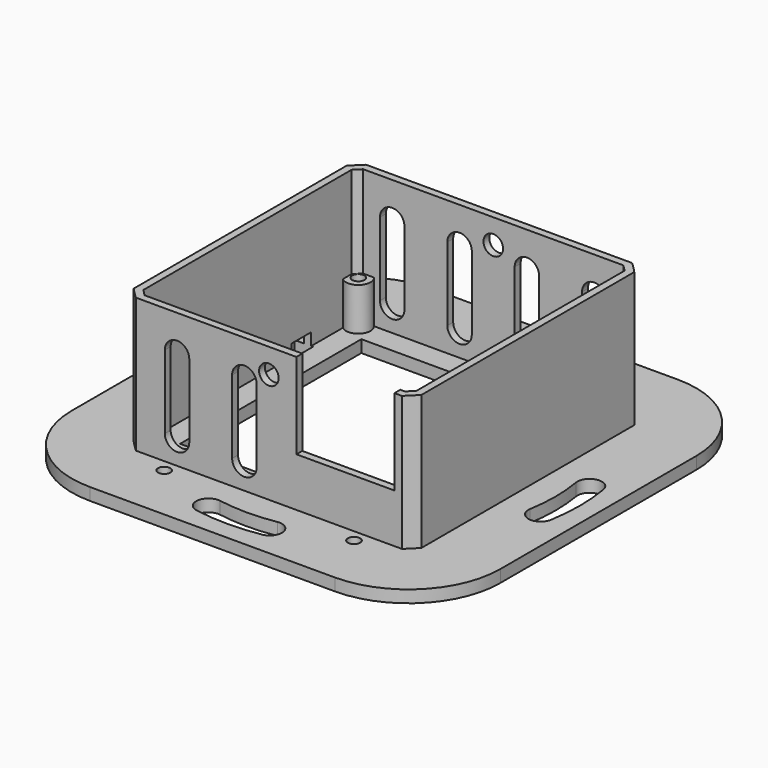
from build123d import *

# Parameters (mm, degrees)
SKETCH_W        = 70
SKETCH_H        = 70
PAD_DEPTH       = 2
PAD001_DEPTH    = 22
POCKET_DEPTH    = 22
SKETCH003_W     = 16
SKETCH003_H     = 23.864653
POCKET001_DEPTH = 18
SKETCH009_R     = 1.6
POCKET005_DEPTH = 58.501
SKETCH010_R     = 2
SKETCH010_W     = 2.5
SKETCH010_H     = 3
SKETCH010_W_2   = 3
PAD004_DEPTH    = 7
POCKET006_DEPTH = 5
POCKET007_DEPTH = 2
FILLET_R        = 15
SKETCH014_W     = 3
SKETCH014_H     = 4
POCKET009_DEPTH = 4
SKETCH015_R     = 1
POCKET010_DEPTH = 24.001
SKETCH016_R     = 1
SKETCH016_W     = 37
SKETCH016_H     = 37
POCKET011_DEPTH = 5


with BuildPart() as part:
    # Sketch → Pad (new body)
    with BuildSketch(Plane.XY):
        Rectangle(SKETCH_W, SKETCH_H)
        with BuildLine():
            ThreePointArc((27.608372, -4.666667), (28, 0), (27.608372, 4.666667))
            ThreePointArc((31.552426, 5.333333), (29.247066, 6.972027), (27.608372, 4.666667))
            ThreePointArc((31.552426, -5.333333), (32, 0), (31.552426, 5.333333))
            ThreePointArc((27.608372, -4.666667), (29.247066, -6.972027), (31.552426, -5.333333))
        make_face(mode=Mode.SUBTRACT)
        with BuildLine():
            ThreePointArc((-27.608372, 4.666667), (-28, 0), (-27.608372, -4.666667))
            ThreePointArc((-31.552426, -5.333333), (-29.247066, -6.972027), (-27.608372, -4.666667))
            ThreePointArc((-31.552426, 5.333333), (-32, 0), (-31.552426, -5.333333))
            ThreePointArc((-27.608372, 4.666667), (-29.247066, 6.972027), (-31.552426, 5.333333))
        make_face(mode=Mode.SUBTRACT)
        with BuildLine():
            ThreePointArc((4.666667, 27.608372), (-1e-06, 28), (-4.666668, 27.608372))
            ThreePointArc((-5.333333, 31.552426), (-6.972027, 29.247066), (-4.666668, 27.608372))
            ThreePointArc((5.333333, 31.552426), (0, 32), (-5.333333, 31.552426))
            ThreePointArc((4.666667, 27.608372), (6.972027, 29.247066), (5.333333, 31.552426))
        make_face(mode=Mode.SUBTRACT)
        with BuildLine():
            ThreePointArc((-4.666659, -27.608374), (4e-06, -28), (4.666667, -27.608372))
            ThreePointArc((5.333333, -31.552426), (6.972027, -29.247066), (4.666667, -27.608372))
            ThreePointArc((-5.333319, -31.552428), (7e-06, -32), (5.333333, -31.552426))
            ThreePointArc((-4.666659, -27.608374), (-6.972027, -29.247069), (-5.333319, -31.552428))
        make_face(mode=Mode.SUBTRACT)
    extrude(amount=PAD_DEPTH)

    # Sketch001 (on Face22 of Pad) → Pad001 (join)
    with BuildSketch(Plane.XY.offset(2)):
        with BuildLine():
            Line((21.719807, -23.5), (-21.719807, -23.5))
            ThreePointArc((-23.5, -21.719807), (-22.627417, -22.627417), (-21.719807, -23.5))
            Line((-23.5, 21.719807), (-23.5, -21.719807))
            ThreePointArc((-21.719807, 23.5), (-22.627417, 22.627417), (-23.5, 21.719807))
            Line((-21.719807, 23.5), (21.719807, 23.5))
            ThreePointArc((23.5, 21.719807), (22.627417, 22.627417), (21.719807, 23.5))
            Line((23.5, 21.719807), (23.5, -21.719807))
            ThreePointArc((21.719807, -23.5), (22.627417, -22.627417), (23.5, -21.719807))
        make_face()
    extrude(amount=PAD001_DEPTH)

    # Sketch002 (on Face31 of Pad001) → Pocket (cut)
    with BuildSketch(Plane.XY.offset(24)):
        with BuildLine():
            Line((-22.3, 21.244999), (-22.3, -21.244999))
            ThreePointArc((-22.3, -21.244999), (-21.778889, -21.778889), (-21.244999, -22.3))
            Line((-21.244999, -22.3), (21.244999, -22.3))
            ThreePointArc((21.244999, -22.3), (21.778889, -21.778889), (22.3, -21.244999))
            Line((22.3, 21.244999), (22.3, -21.244999))
            ThreePointArc((22.3, 21.244999), (21.778889, 21.778889), (21.244999, 22.3))
            Line((-21.244999, 22.3), (21.244999, 22.3))
            ThreePointArc((-21.244999, 22.3), (-21.778889, 21.778889), (-22.3, 21.244999))
        make_face()
    extrude(amount=-POCKET_DEPTH, mode=Mode.SUBTRACT)

    # Sketch003 (on Face30 of Pocket) → Pocket001 (cut)
    with BuildSketch(Plane.XZ.offset(23.5)):
        with Locations((12.5, 21.932326)):
            Rectangle(SKETCH003_W, SKETCH003_H)
    extrude(amount=-POCKET001_DEPTH, mode=Mode.SUBTRACT)

    # Sketch009 → Pocket005 (cut, through all)
    with BuildSketch(Plane.XZ.offset(23.5)):
        with Locations((0, 20)):
            Circle(SKETCH009_R)
    extrude(amount=-POCKET005_DEPTH, mode=Mode.SUBTRACT)

    # Sketch010 (on Face45 of Pocket005) → Pad004 (join)
    with BuildSketch(Plane.XY.offset(2)):
        with Locations((21, 21)):
            Circle(SKETCH010_R)
        with Locations((-21, 21)):
            Circle(SKETCH010_R)
        with Locations((-21, -21)):
            Circle(SKETCH010_R)
        with Locations((21.75, 4.5)):
            Rectangle(SKETCH010_W, SKETCH010_H)
        with Locations((0, -21)):
            Rectangle(SKETCH010_W_2, SKETCH010_H)
    extrude(amount=PAD004_DEPTH)

    # Sketch011 (on Face26 of Pad004) → Pocket006 (cut)
    with BuildSketch(Plane(origin=(0, 23.5, 0), x_dir=(-1, 0, 0), z_dir=(0, 1, 0))):
        with BuildLine():
            Line((-18.5, 17.993099), (-18.5, 5.993099))
            ThreePointArc((-18.5, 5.993099), (-16.5, 3.993099), (-14.5, 5.993099))
            Line((-14.5, 17.993099), (-14.5, 5.993099))
            ThreePointArc((-14.5, 17.993099), (-16.5, 19.993099), (-18.5, 17.993099))
        make_face()
        with BuildLine():
            Line((-7.5, 17.993099), (-7.5, 5.993099))
            ThreePointArc((-7.5, 5.993099), (-5.5, 3.993099), (-3.5, 5.993099))
            Line((-3.5, 17.993099), (-3.5, 5.993099))
            ThreePointArc((-3.5, 17.993099), (-5.5, 19.993099), (-7.5, 17.993099))
        make_face()
        with BuildLine():
            Line((3.5, 17.993099), (3.5, 5.993099))
            ThreePointArc((3.5, 5.993099), (5.5, 3.993099), (7.5, 5.993099))
            Line((7.5, 17.993099), (7.5, 5.993099))
            ThreePointArc((7.5, 17.993099), (5.5, 19.993099), (3.5, 17.993099))
        make_face()
        with BuildLine():
            Line((14.5, 17.993099), (14.5, 5.993099))
            ThreePointArc((14.5, 5.993099), (16.5, 3.993099), (18.5, 5.993099))
            Line((18.5, 17.993099), (18.5, 5.993099))
            ThreePointArc((18.5, 17.993099), (16.5, 19.993099), (14.5, 17.993099))
        make_face()
    extrude(amount=-POCKET006_DEPTH, mode=Mode.SUBTRACT)

    # Sketch012 (on Face30 of Pocket006) → Pocket007 (cut)
    with BuildSketch(Plane.XZ.offset(23.5)):
        with BuildLine():
            Line((-17, 18), (-17, 6))
            ThreePointArc((-17, 6), (-15, 4), (-13, 6))
            Line((-13, 18), (-13, 6))
            ThreePointArc((-13, 18), (-15, 20), (-17, 18))
        make_face()
        with BuildLine():
            Line((-6, 18), (-6, 6))
            ThreePointArc((-6, 6), (-4, 4), (-2, 6))
            Line((-2, 18), (-2, 6))
            ThreePointArc((-2, 18), (-4, 20), (-6, 18))
        make_face()
    extrude(amount=-POCKET007_DEPTH, mode=Mode.SUBTRACT)

    # Fillet
    fillet_edges = [part.edges().sort_by_distance(p)[0] for p in [
        (-35, -35, 1),
        (-35, 35, 1),
        (35, -35, 1),
        (35, 35, 1),
    ]]
    fillet(fillet_edges, radius=FILLET_R)

    # Sketch014 (on Face2 of Fillet) → Pocket009 (cut)
    with BuildSketch(Plane(origin=(0, 0, 0), x_dir=(1, 0, 0), z_dir=(0, 0, -1))):
        with Locations((-23.5, -11)):
            Rectangle(SKETCH014_W, SKETCH014_H)
    extrude(amount=-POCKET009_DEPTH, mode=Mode.SUBTRACT)

    # Sketch015 (on Face2 of Pocket009) → Pocket010 (cut, through all)
    with BuildSketch(Plane(origin=(0, 0, 0), x_dir=(1, 0, 0), z_dir=(0, 0, -1))):
        with Locations((-21, 21)):
            Circle(SKETCH015_R)
        with Locations((-21, -21)):
            Circle(SKETCH015_R)
    extrude(amount=-POCKET010_DEPTH, mode=Mode.SUBTRACT)

    # Sketch016 (on Face44 of Pocket010) → Pocket011 (cut)
    with BuildSketch(Plane(origin=(0, 0, 4), x_dir=(1, 0, 0), z_dir=(0, 0, -1))):
        with Locations((15.5, 25.5)):
            Circle(SKETCH016_R)
        with Locations((-15.5, 25.5)):
            Circle(SKETCH016_R)
        with Locations((-15.5, -25.5)):
            Circle(SKETCH016_R)
        with Locations((15.5, -25.5)):
            Circle(SKETCH016_R)
        Rectangle(SKETCH016_W, SKETCH016_H)
    extrude(amount=POCKET011_DEPTH, mode=Mode.SUBTRACT)


solid = part.part
